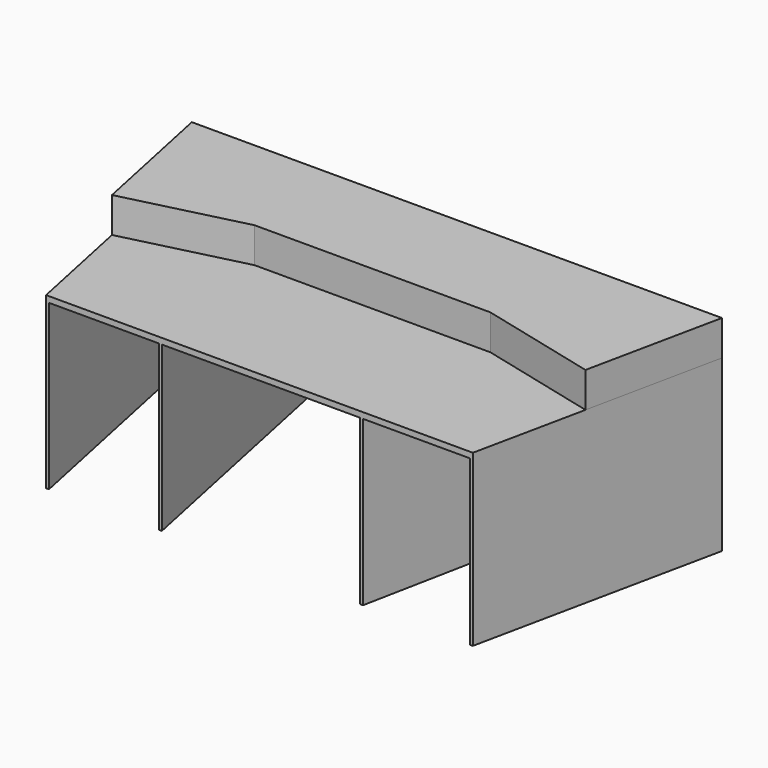
from build123d import *

# Parameters (mm, degrees)
F1_DEPTH = 25.4
F3_DEPTH = 152.4
F5_DEPTH = 711.2


with BuildPart() as f1:
    # F0 (on Top) → F1 (new body)
    with BuildSketch(Plane.XY):
        Polygon((-823.540136, 579.701138), (-599.702636, -489.315987), (1249.734864, -489.315987), (1473.572364, 579.701138), align=None)
    extrude(amount=F1_DEPTH)

    # F2 (on face) → F3 (join)
    with BuildSketch(Plane.XY.offset(25.4)):
        Polygon((1473.572364, 579.701138), (-823.540136, 579.701138), (-700.884281, -6.086362), (-186.153281, 122.501138), (836.196719, 122.501138), (1350.916509, -6.086362), align=None)
    extrude(amount=F3_DEPTH)

    # F4 (on face) → F5 (join)
    with BuildSketch(Plane(origin=(0, 0, 0), x_dir=(1, 0, 0), z_dir=(0, 0, -1))):
        Polygon((-810.840136, -579.701138), (-587.002636, 489.315987), (-599.702636, 489.315987), (-823.540136, -579.701138), align=None)
        Polygon((-321.890136, -579.701138), (-98.052636, 489.315987), (-110.752636, 489.315987), (-334.590136, -579.701138), align=None)
        Polygon((984.622364, -579.701138), (773.484864, 489.315987), (760.784864, 489.315987), (971.922364, -579.701138), align=None)
        Polygon((1473.572364, -579.701138), (1249.734864, 489.315987), (1237.034864, 489.315987), (1460.872364, -579.701138), align=None)
    extrude(amount=F5_DEPTH)


solid = f1.part
